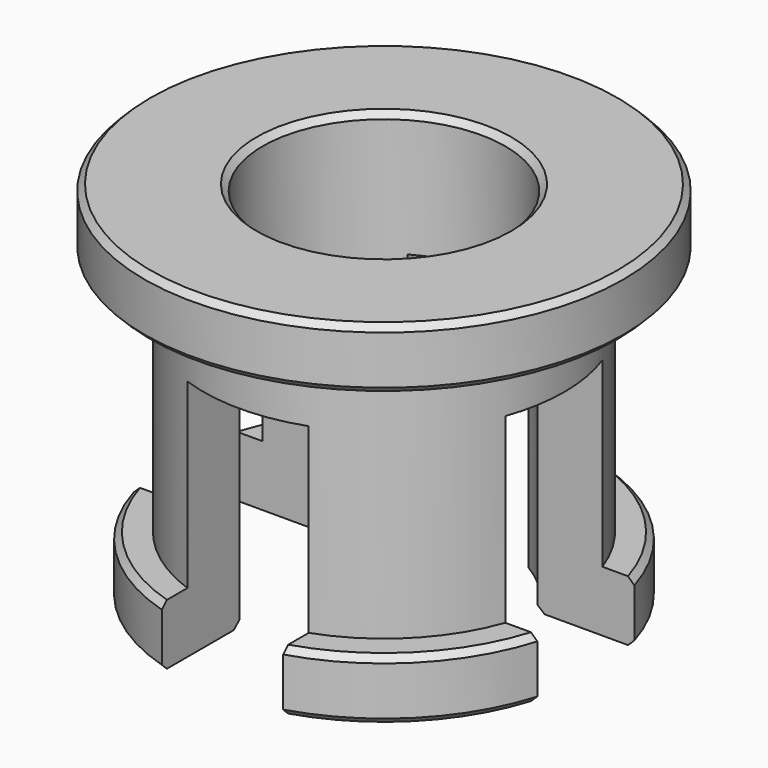
from build123d import *

# Parameters (mm, degrees)
F2_SIZE       = 0.2
F3_W          = 4
F3_H          = 8
F4_DEPTH      = 7.901
F4_DEPTH_BACK = 7.901
F5_W          = 4
F5_H          = 8
F6_DEPTH      = 7.901
F6_DEPTH_BACK = 7.901


with BuildPart() as f1:
    # F0 (on Front) → F1 (revolve)
    with BuildSketch(Plane.XZ):
        Polygon((4, 0), (4, -12.1), (6.95, -12.1), (6.95, -10.1), (5.95, -10.1), (5.95, -2), (7.9, -2), (7.9, 0), align=None)
    revolve(axis=Axis((0, 0, -6.05), (0, 0, -1)))

    # F2
    f2_edges = [f1.edges().sort_by_distance(p)[0] for p in [
        (-4, 0, 0),
        (-4, 0, -12.1),
        (4, 0, -6.05),
        (-7.9, 0, -2),
        (-7.9, 0, 0),
        (7.9, 0, -1),
        (-6.95, 0, -12.1),
        (-6.95, 0, -10.1),
        (6.95, 0, -11.1),
    ]]
    chamfer(f2_edges, length=F2_SIZE)

    # F3 (on Front) → F4 (cut, two sides)
    with BuildSketch(Plane.XZ) as f4_sk:
        with Locations((0, -8.1)):
            Rectangle(F3_W, F3_H)
    extrude(amount=-F4_DEPTH, mode=Mode.SUBTRACT)
    extrude(f4_sk.sketch, amount=F4_DEPTH_BACK, mode=Mode.SUBTRACT)

    # F5 (on Right) → F6 (cut, two sides)
    with BuildSketch(Plane.YZ) as f6_sk:
        with Locations((0, -8.1)):
            Rectangle(F5_W, F5_H)
    extrude(amount=F6_DEPTH, mode=Mode.SUBTRACT)
    extrude(f6_sk.sketch, amount=-F6_DEPTH_BACK, mode=Mode.SUBTRACT)


solid = f1.part
